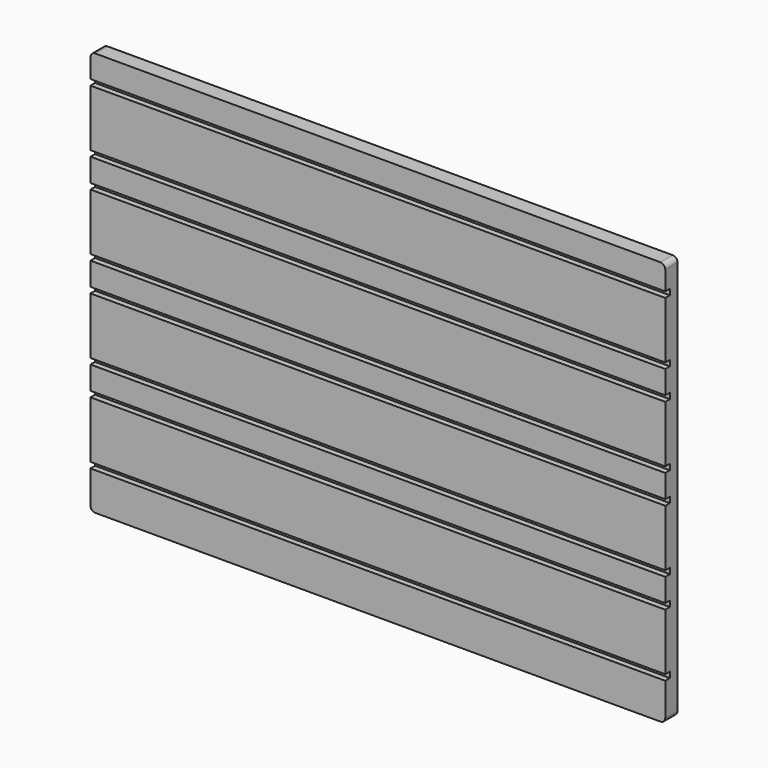
from build123d import *

# Parameters (mm, degrees)
F1_DEPTH = 16
F2_W     = 597
F2_H     = 6
F3_DEPTH = 6


with BuildPart() as f1:
    # F0 (on Front) → F1 (new body)
    with BuildSketch(Plane.XZ):
        with BuildLine():
            Line((-283.915503, -205), (303.084497, -205))
            ThreePointArc((303.084497, -205), (306.620031, -203.535534), (308.084497, -200))
            Line((308.084497, -200), (308.084497, 210))
            ThreePointArc((308.084497, 210), (306.620031, 213.535534), (303.084497, 215))
            Line((303.084497, 215), (-283.915503, 215))
            ThreePointArc((-283.915503, 215), (-287.451037, 213.535534), (-288.915503, 210))
            Line((-288.915503, 210), (-288.915503, -200))
            ThreePointArc((-288.915503, -200), (-287.451037, -203.535534), (-283.915503, -205))
        make_face()
    extrude(amount=F1_DEPTH)

    # F2 (on face) → F3 (cut)
    with BuildSketch(Plane.XZ.offset(16)):
        with Locations((9.584497, 187)):
            Rectangle(F2_W, F2_H)
        with Locations((9.584497, 122)):
            Rectangle(F2_W, F2_H)
        with Locations((9.584497, 92)):
            Rectangle(F2_W, F2_H)
        with Locations((9.584497, -3)):
            Rectangle(F2_W, F2_H)
        with Locations((9.584497, -68)):
            Rectangle(F2_W, F2_H)
        with Locations((9.584497, -98)):
            Rectangle(F2_W, F2_H)
        with Locations((9.584497, 27)):
            Rectangle(F2_W, F2_H)
        with Locations((9.584497, -163)):
            Rectangle(F2_W, F2_H)
    extrude(amount=-F3_DEPTH, mode=Mode.SUBTRACT)


solid = f1.part
